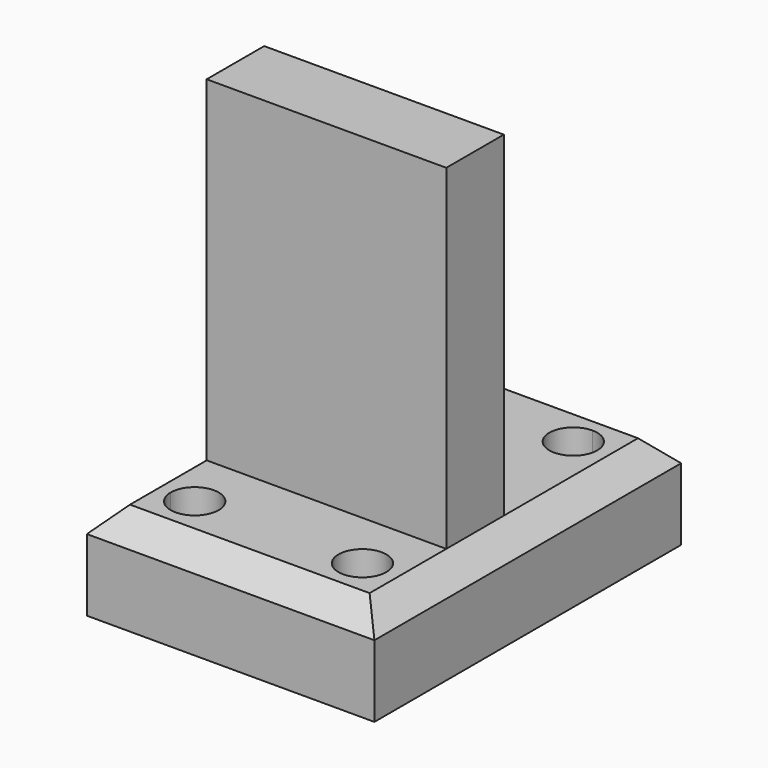
from build123d import *

# Parameters (mm, degrees)
F0_W     = 38.1
F0_H     = 19.05
F1_DEPTH = 25.4
F2_SIZE  = 6.35
F3_W     = 63.5
F3_H     = 19.05
F4_DEPTH = 88.9


with BuildPart() as f1:
    # F0 (on Top) → F1 (new body)
    with BuildSketch(Plane.XY):
        with BuildLine():
            Line((30.0978315473, 52.679737395), (7.8728315473, 52.679737395))
            Line((7.8728315473, 52.679737395), (7.8728315473, 20.929737395))
            Line((7.8728315473, 20.929737395), (45.9728315473, 20.929737395))
            Line((45.9728315473, 20.929737395), (45.9728315473, 36.804737395))
            Line((45.9728315473, 36.804737395), (36.4478315473, 36.804737395))
            ThreePointArc((36.4478315473, 36.804737395), (25.6077034867, 32.3146093345), (30.0978315473, 43.154737395))
            Line((30.0978315473, 43.154737395), (30.0978315473, 52.679737395))
        make_face()
        with BuildLine():
            Line((45.9728315473, 52.679737395), (30.0978315473, 52.679737395))
            Line((30.0978315473, 52.679737395), (30.0978315473, 43.154737395))
            ThreePointArc((30.0978315473, 43.154737395), (34.5879596078, 41.2948654556), (36.4478315473, 36.804737395))
            Line((36.4478315473, 36.804737395), (45.9728315473, 36.804737395))
            Line((45.9728315473, 36.804737395), (45.9728315473, 52.679737395))
        make_face()
        with BuildLine():
            Line((7.8728315473, 52.679737395), (-14.3521684527, 52.679737395))
            Line((-14.3521684527, 52.679737395), (-14.3521684527, 43.154737395))
            ThreePointArc((-14.3521684527, 43.154737395), (-9.8620403922, 41.2948654556), (-8.0021684527, 36.804737395))
            ThreePointArc((-8.0021684527, 36.804737395), (-14.3521684527, 30.454737395), (-20.7021684527, 36.804737395))
            Line((-20.7021684527, 36.804737395), (-30.2271684527, 36.804737395))
            Line((-30.2271684527, 36.804737395), (-30.2271684527, 20.929737395))
            Line((-30.2271684527, 20.929737395), (7.8728315473, 20.929737395))
            Line((7.8728315473, 20.929737395), (7.8728315473, 52.679737395))
        make_face()
        with BuildLine():
            Line((-14.3521684527, 52.679737395), (-30.2271684527, 52.679737395))
            Line((-30.2271684527, 52.679737395), (-30.2271684527, 36.804737395))
            Line((-30.2271684527, 36.804737395), (-20.7021684527, 36.804737395))
            ThreePointArc((-20.7021684527, 36.804737395), (-18.8422965133, 41.2948654556), (-14.3521684527, 43.154737395))
            Line((-14.3521684527, 43.154737395), (-14.3521684527, 52.679737395))
        make_face()
        with BuildLine():
            Line((45.9728315473, -48.920262605), (45.9728315473, -33.045262605))
            Line((45.9728315473, -33.045262605), (36.4478315473, -33.045262605))
            ThreePointArc((36.4478315473, -33.045262605), (34.5879596078, -37.5353906655), (30.0978315473, -39.395262605))
            Line((30.0978315473, -39.395262605), (30.0978315473, -48.920262605))
            Line((30.0978315473, -48.920262605), (45.9728315473, -48.920262605))
        make_face()
        with BuildLine():
            Line((45.9728315473, 1.879737395), (7.8728315473, 1.879737395))
            Line((7.8728315473, 1.879737395), (7.8728315473, -48.920262605))
            Line((7.8728315473, -48.920262605), (30.0978315473, -48.920262605))
            Line((30.0978315473, -48.920262605), (30.0978315473, -39.395262605))
            ThreePointArc((30.0978315473, -39.395262605), (25.6077034867, -28.5551345444), (36.4478315473, -33.045262605))
            Line((36.4478315473, -33.045262605), (45.9728315473, -33.045262605))
            Line((45.9728315473, -33.045262605), (45.9728315473, 1.879737395))
        make_face()
        with BuildLine():
            Line((-20.7021684527, -33.045262605), (-30.2271684527, -33.045262605))
            Line((-30.2271684527, -33.045262605), (-30.2271684527, -48.920262605))
            Line((-30.2271684527, -48.920262605), (-14.3521684527, -48.920262605))
            Line((-14.3521684527, -48.920262605), (-14.3521684527, -39.395262605))
            ThreePointArc((-14.3521684527, -39.395262605), (-18.8422965133, -37.5353906655), (-20.7021684527, -33.045262605))
        make_face()
        with BuildLine():
            Line((7.8728315473, 1.879737395), (-30.2271684527, 1.879737395))
            Line((-30.2271684527, 1.879737395), (-30.2271684527, -33.045262605))
            Line((-30.2271684527, -33.045262605), (-20.7021684527, -33.045262605))
            ThreePointArc((-20.7021684527, -33.045262605), (-14.3521684527, -26.695262605), (-8.0021684527, -33.045262605))
            ThreePointArc((-8.0021684527, -33.045262605), (-9.8620403922, -37.5353906655), (-14.3521684527, -39.395262605))
            Line((-14.3521684527, -39.395262605), (-14.3521684527, -48.920262605))
            Line((-14.3521684527, -48.920262605), (7.8728315473, -48.920262605))
            Line((7.8728315473, -48.920262605), (7.8728315473, 1.879737395))
        make_face()
        with BuildLine():
            Line((-20.7021684527, -33.045262605), (-30.2271684527, -33.045262605))
            Line((-30.2271684527, -33.045262605), (-30.2271684527, -48.920262605))
            Line((-30.2271684527, -48.920262605), (-14.3521684527, -48.920262605))
            Line((-14.3521684527, -48.920262605), (-14.3521684527, -39.395262605))
            ThreePointArc((-14.3521684527, -39.395262605), (-18.8422965133, -37.5353906655), (-20.7021684527, -33.045262605))
        make_face()
        with BuildLine():
            Line((45.9728315473, -48.920262605), (45.9728315473, -33.045262605))
            Line((45.9728315473, -33.045262605), (36.4478315473, -33.045262605))
            ThreePointArc((36.4478315473, -33.045262605), (34.5879596078, -37.5353906655), (30.0978315473, -39.395262605))
            Line((30.0978315473, -39.395262605), (30.0978315473, -48.920262605))
            Line((30.0978315473, -48.920262605), (45.9728315473, -48.920262605))
        make_face()
        with Locations((-11.1771684527, 11.404737395)):
            Rectangle(F0_W, F0_H)
        with Locations((26.9228315473, 11.404737395)):
            Rectangle(F0_W, F0_H)
    extrude(amount=F1_DEPTH)

    # F2
    f2_edges = [f1.edges().sort_by_distance(p)[0] for p in [
        (7.872832, 52.679737, 25.4),
        (-30.227168, 1.879737, 25.4),
        (7.872832, -48.920263, 25.4),
        (45.972832, 1.879737, 25.4),
    ]]
    chamfer(f2_edges, length=F2_SIZE)

    # F3 (on face) → F4 (join)
    with BuildSketch(Plane.XY.offset(25.4)):
        with Locations((7.8728315473, -7.645262605)):
            Rectangle(F3_W, F3_H)
    extrude(amount=F4_DEPTH)


solid = f1.part
